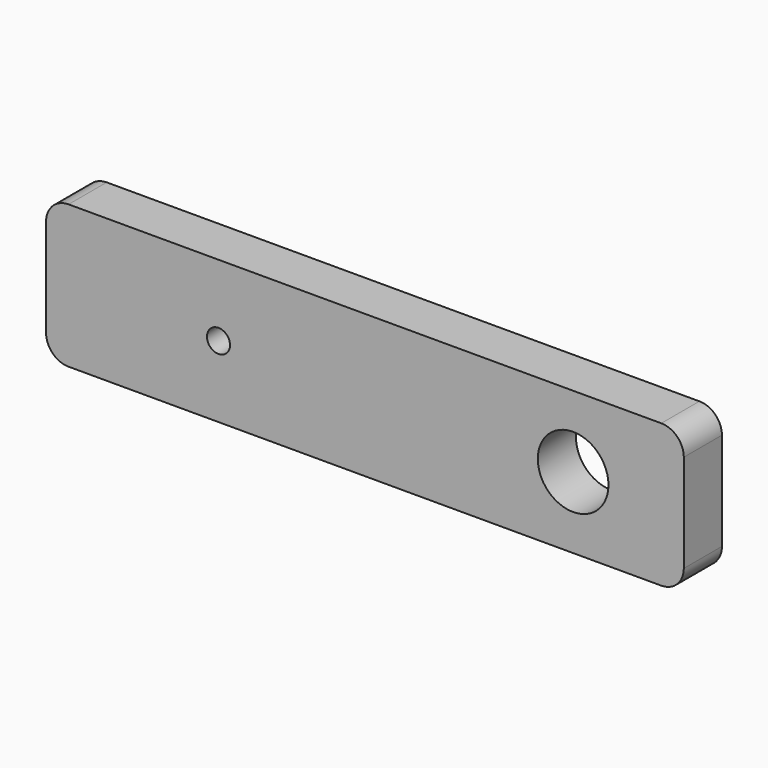
from build123d import *

# Parameters (mm, degrees)
F0_W     = 85
F0_H     = 19.05
F1_DEPTH = 6.35
F2_R     = 3
F3_R     = 1.535965
F3_R_2   = 4.709265
F4_DEPTH = 25
F5_R     = 1.5
F6_DEPTH = 5


with BuildPart() as f1:
    # F0 (on Front) → F1 (new body)
    with BuildSketch(Plane.XZ):
        Rectangle(F0_W, F0_H)
    extrude(amount=F1_DEPTH)

    # F2
    f2_edges = [f1.edges().sort_by_distance(p)[0] for p in [
        (-42.5, -3.175, 9.525),
        (42.5, -3.175, 9.525),
        (-42.5, -3.175, -9.525),
        (42.5, -3.175, -9.525),
    ]]
    fillet(f2_edges, radius=F2_R)

    # F3 (on face) → F4 (cut)
    with BuildSketch(Plane.XZ.offset(6.35)):
        with Locations((-19.519491, 0)):
            Circle(F3_R)
        with Locations((27.747195, 0)):
            Circle(F3_R_2)
    extrude(amount=-F4_DEPTH, mode=Mode.SUBTRACT)

    # F5 (on face) → F6 (cut)
    with BuildSketch(Plane(origin=(0, 0, -9.525), x_dir=(1, 0, 0), z_dir=(0, 0, -1))):
        with Locations((-21, 3.0625)):
            Circle(F5_R)
        with Locations((21.000085, 3.118848)):
            Circle(F5_R)
    extrude(amount=-F6_DEPTH, mode=Mode.SUBTRACT)


solid = f1.part
